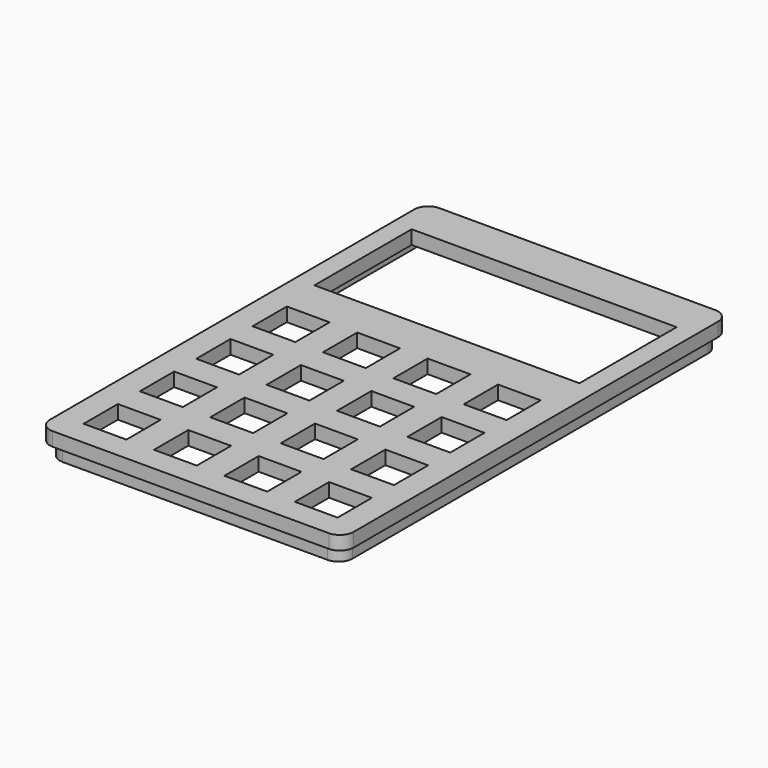
from build123d import *

# Parameters (mm, degrees)
F0_W     = 15.5
F0_H     = 15.5
F0_W_2   = 96
F0_H_2   = 44
F1_DEPTH = 5
F3_DEPTH = 5


with BuildPart() as f1:
    # F0 (on Top) → F1 (new body)
    with BuildSketch(Plane.XY):
        with BuildLine():
            ThreePointArc((0, 5), (1.464466, 1.464466), (5, 0))
            Line((5, 0), (105, 0))
            ThreePointArc((105, 0), (108.535534, 1.464466), (110, 5))
            Line((110, 5), (110, 170))
            ThreePointArc((110, 170), (108.535534, 173.535534), (105, 175))
            Line((105, 175), (5, 175))
            ThreePointArc((5, 175), (1.464466, 173.535534), (0, 170))
            Line((0, 170), (0, 5))
        make_face()
        with Locations((16.75, 16.75)):
            Rectangle(F0_W, F0_H, mode=Mode.SUBTRACT)
        with Locations((16.75, 42.25)):
            Rectangle(F0_W, F0_H, mode=Mode.SUBTRACT)
        with Locations((42.25, 16.75)):
            Rectangle(F0_W, F0_H, mode=Mode.SUBTRACT)
        with Locations((42.25, 42.25)):
            Rectangle(F0_W, F0_H, mode=Mode.SUBTRACT)
        with Locations((16.75, 67.75)):
            Rectangle(F0_W, F0_H, mode=Mode.SUBTRACT)
        with Locations((42.25, 67.75)):
            Rectangle(F0_W, F0_H, mode=Mode.SUBTRACT)
        with Locations((67.75, 16.75)):
            Rectangle(F0_W, F0_H, mode=Mode.SUBTRACT)
        with Locations((67.75, 42.25)):
            Rectangle(F0_W, F0_H, mode=Mode.SUBTRACT)
        with Locations((93.25, 16.75)):
            Rectangle(F0_W, F0_H, mode=Mode.SUBTRACT)
        with Locations((93.25, 42.25)):
            Rectangle(F0_W, F0_H, mode=Mode.SUBTRACT)
        with Locations((67.75, 67.75)):
            Rectangle(F0_W, F0_H, mode=Mode.SUBTRACT)
        with Locations((93.25, 67.75)):
            Rectangle(F0_W, F0_H, mode=Mode.SUBTRACT)
        with Locations((16.75, 93.25)):
            Rectangle(F0_W, F0_H, mode=Mode.SUBTRACT)
        with Locations((42.25, 93.25)):
            Rectangle(F0_W, F0_H, mode=Mode.SUBTRACT)
        with Locations((67.75, 93.25)):
            Rectangle(F0_W, F0_H, mode=Mode.SUBTRACT)
        with Locations((93.25, 93.25)):
            Rectangle(F0_W, F0_H, mode=Mode.SUBTRACT)
        with Locations((55, 138)):
            Rectangle(F0_W_2, F0_H_2, mode=Mode.SUBTRACT)
    extrude(amount=F1_DEPTH)

    # F2 (on face) → F3 (join)
    with BuildSketch(Plane.XY):
        with BuildLine():
            ThreePointArc((108, 168), (106.535534, 171.535534), (103, 173))
            Line((103, 173), (7, 173))
            ThreePointArc((7, 173), (3.464466, 171.535534), (2, 168))
            Line((2, 168), (2, 7))
            ThreePointArc((2, 7), (3.464466, 3.464466), (7, 2))
            Line((7, 2), (103, 2))
            ThreePointArc((103, 2), (106.535534, 3.464466), (108, 7))
            Line((108, 7), (108, 168))
        make_face()
        with BuildLine():
            Line((8, 172), (102, 172))
            ThreePointArc((102, 172), (105.535534, 170.535534), (107, 167))
            Line((107, 167), (107, 8))
            ThreePointArc((107, 8), (105.535534, 4.464466), (102, 3))
            Line((102, 3), (8, 3))
            ThreePointArc((8, 3), (4.464466, 4.464466), (3, 8))
            Line((3, 8), (3, 167))
            ThreePointArc((3, 167), (4.464466, 170.535534), (8, 172))
        make_face(mode=Mode.SUBTRACT)
    extrude(amount=-F3_DEPTH)


solid = f1.part
